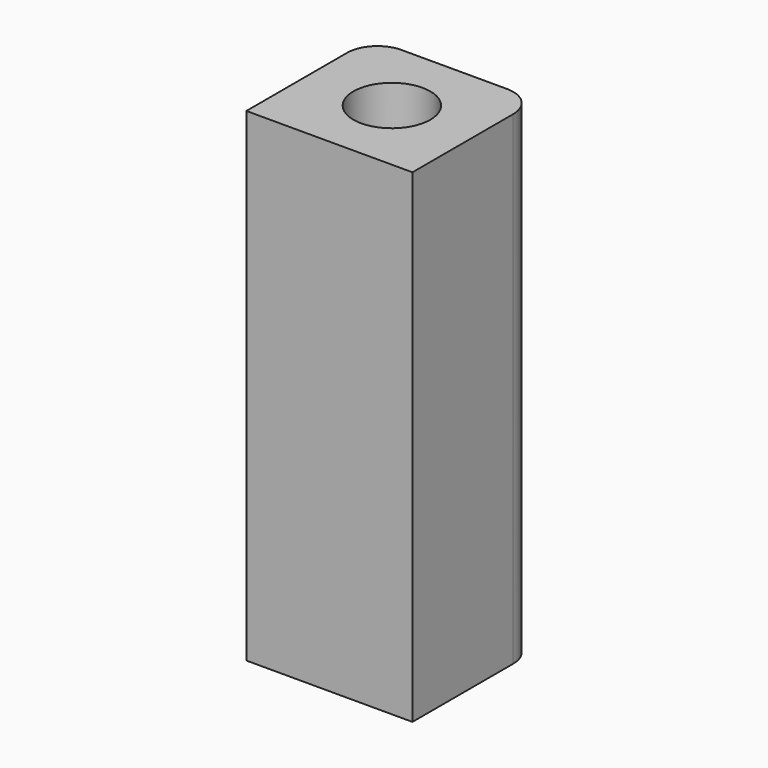
from build123d import *

# Parameters (mm, degrees)
F0_W     = 34.877166
F0_H     = 32.801156
F0_R     = 8.075164
F1_DEPTH = 101.6
F2_R     = 6.35


with BuildPart() as f1:
    # F0 (on Top) → F1 (new body)
    with BuildSketch(Plane.XY):
        Rectangle(F0_W, F0_H)
        Circle(F0_R, mode=Mode.SUBTRACT)
    extrude(amount=F1_DEPTH)

    # F2
    f2_edges = [f1.edges().sort_by_distance(p)[0] for p in [
        (-17.438583, 16.400578, 50.8),
        (17.438583, 16.400578, 50.8),
    ]]
    fillet(f2_edges, radius=F2_R)


solid = f1.part
